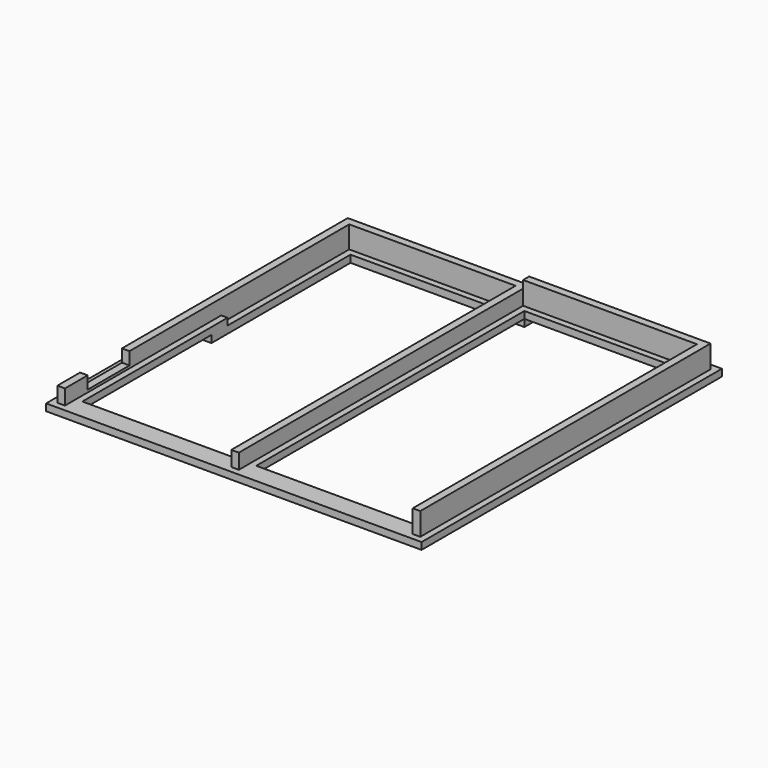
from build123d import *

# Parameters (mm, degrees)
F1_DEPTH  = 152.4
F2_DEPTH  = 152.4
F3_W      = 3251.2
F3_H      = 6756.4
F4_DEPTH  = 139.7
F7_DEPTH  = 146.05
F8_DEPTH  = 152.4
F12_W     = 1054.1
F12_H     = 254
F13_DEPTH = 284.48


with BuildPart() as f1:
    # F0 (on Top) → F1 (new body)
    with BuildSketch(Plane.XY):
        Polygon((3657.6, 3657.6), (-3657.6, 3657.6), (-3657.6, -3657.6), (-3505.2, -3657.6), (-3505.2, 3505.2), (-152.4, 3505.2), (-152.4, -3657.6), (0, -3657.6), (0, 3505.2), (3505.2, 3505.2), (3505.2, -3657.6), (3657.6, -3657.6), align=None)
    extrude(amount=F1_DEPTH)

    # F1_face (on face) → F2 (join)
    with BuildSketch(Plane(origin=(-18.949206, 852.714286, 0), x_dir=(1, 0, 0), z_dir=(0, 0, -1))):
        Polygon((-3638.650794, -2804.885714), (3676.549206, -2804.885714), (3676.549206, 4510.314286), (3524.149206, 4510.314286), (3524.149206, -2652.485714), (18.949206, -2652.485714), (18.949206, 4510.314286), (-133.450794, 4510.314286), (-133.450794, -2652.485714), (-3486.250794, -2652.485714), (-3486.250794, 4510.314286), (-3638.650794, 4510.314286), align=None)
    extrude(amount=F2_DEPTH)

    # F3 (on face) → F4 (join)
    with BuildSketch(Plane(origin=(0, 0, -152.4), x_dir=(1, 0, 0), z_dir=(0, 0, -1))):
        Polygon((3784.6, 3784.6), (-3784.6, 3784.6), (-3784.6, -279.4), (-3657.6, -279.4), (-3657.6, -3657.6), (-279.4, -3657.6), (-279.4, -3784.6), (3784.6, -3784.6), align=None)
        Polygon((-3378.2, -279.4), (-3378.2, 3378.2), (-279.4, 3378.2), (-279.4, -3505.2), (-3505.2, -3505.2), (-3505.2, -279.4), align=None, mode=Mode.SUBTRACT)
        with Locations((1752.6, 0)):
            Rectangle(F3_W, F3_H, mode=Mode.SUBTRACT)
    extrude(amount=F4_DEPTH)

    # F6 (on face) → F7 (join)
    with BuildSketch(Plane(origin=(0, 0, -292.1), x_dir=(1, 0, 0), z_dir=(0, 0, -1))):
        Polygon((-3378.2, 127), (-3784.6, 127), (-3784.6, -3784.6), (127, -3784.6), (127, -3378.2), (-3378.2, -3378.2), align=None)
    extrude(amount=F7_DEPTH)

    # F5 (on face) → F8 (join)
    with BuildSketch(Plane.XY.offset(152.4)):
        Polygon((3657.6, 3657.6), (0, 3657.6), (0, 3505.2), (3505.2, 3505.2), (3505.2, -3657.6), (3657.6, -3657.6), align=None)
    extrude(amount=F8_DEPTH)

    # F12 (on face) → F13 (cut)
    with BuildSketch(Plane(origin=(-3657.6, 0, 0), x_dir=(0, -1, 0), z_dir=(-1, 0, 0))):
        with Locations((2559.05, 25.4)):
            Rectangle(F12_W, F12_H)
    extrude(amount=-F13_DEPTH, mode=Mode.SUBTRACT)


solid = f1.part
